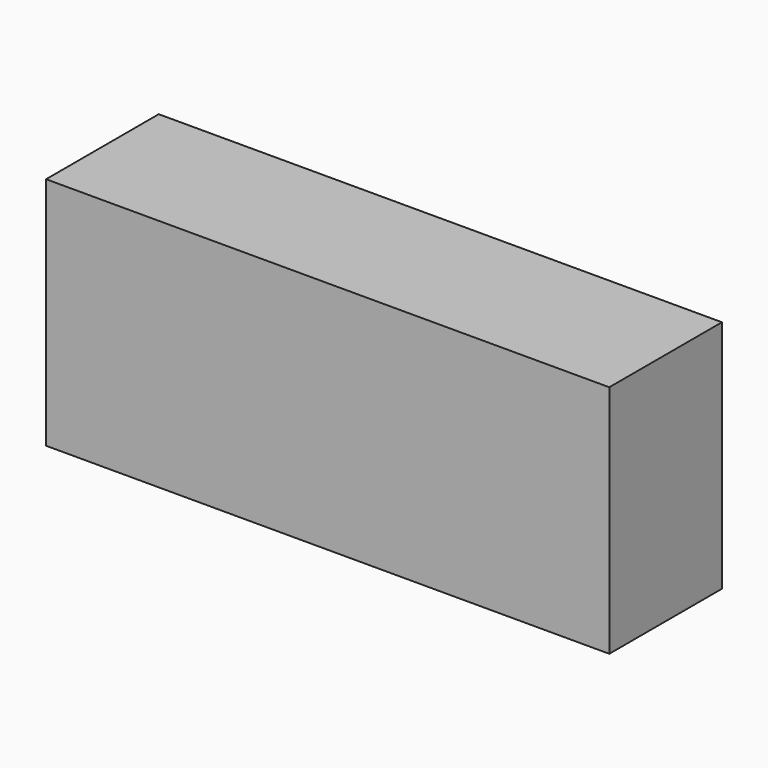
from build123d import *

# Parameters (mm, degrees)
SKETCH_W      = 120
SKETCH_H      = 30
EXTRUDE_DEPTH = 50


with BuildPart() as part:
    # Sketch → Extrude (new body)
    with BuildSketch(Plane.XY):
        Rectangle(SKETCH_W, SKETCH_H)
    extrude(amount=EXTRUDE_DEPTH)


solid = part.part
